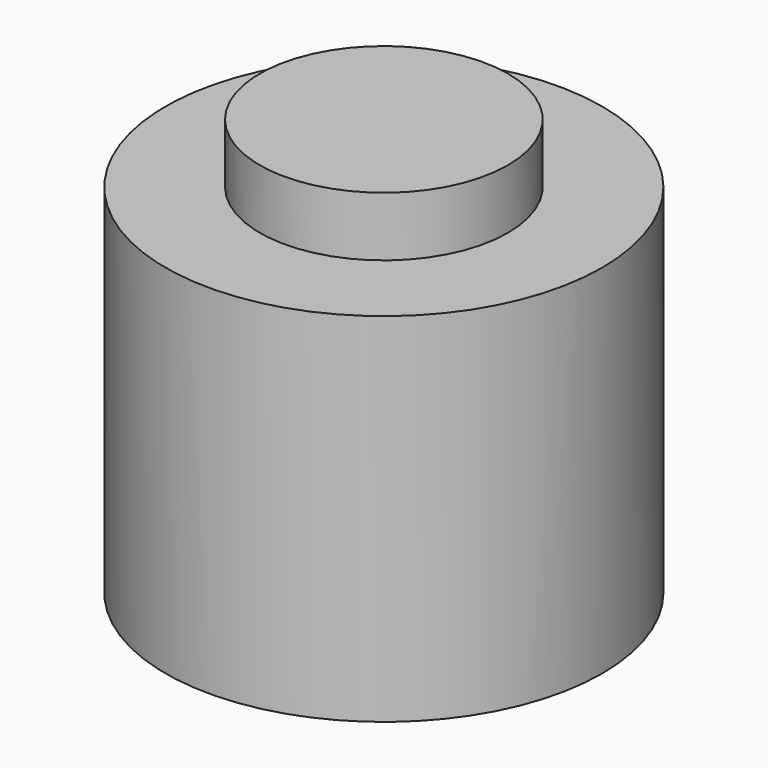
from build123d import *

# Parameters (mm, degrees)
F0_R     = 12.5
F1_DEPTH = 6
F2_R     = 22
F3_DEPTH = 36
F4_R     = 13
F5_DEPTH = 34


with BuildPart() as f1:
    # F0 (on Top) → F1 (new body)
    with BuildSketch(Plane.XY):
        Circle(F0_R)
    extrude(amount=F1_DEPTH)

    # F2 (on face) → F3 (join)
    with BuildSketch(Plane(origin=(0, 0, 0), x_dir=(1, 0, 0), z_dir=(0, 0, -1))):
        Circle(F2_R)
    extrude(amount=F3_DEPTH)

    # F4 (on face) → F5 (cut)
    with BuildSketch(Plane(origin=(0, 0, -36), x_dir=(1, 0, 0), z_dir=(0, 0, -1))):
        Circle(F4_R)
    extrude(amount=-F5_DEPTH, mode=Mode.SUBTRACT)


solid = f1.part
